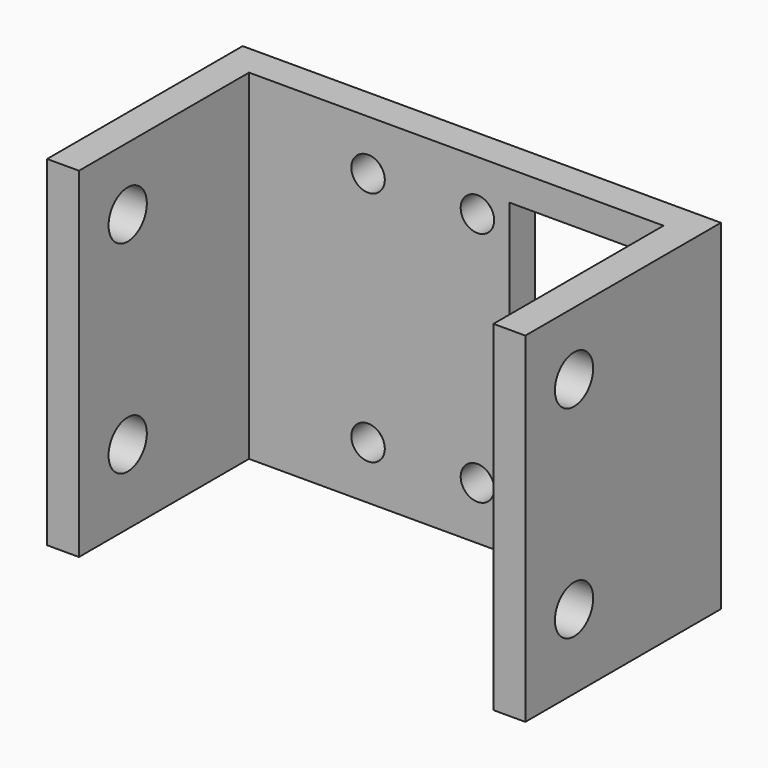
from build123d import *

# Parameters (mm, degrees)
PAD_DEPTH       = 32
SKETCH002_R     = 2.25
POCKET_DEPTH    = 45.001
SKETCH003_R     = 1.575
SKETCH003_W     = 13.933726
SKETCH003_H     = 26.2
POCKET001_DEPTH = 5


with BuildPart() as part:
    # Sketch → Pad (new body)
    with BuildSketch(Plane.XY):
        Polygon((-3, 3), (-3, -20), (0, -20), (0, 0), (39, 0), (39, -20), (42, -20), (42, 3), align=None)
    extrude(amount=PAD_DEPTH)

    # Sketch002 (on Face1 of Pad) → Pocket (cut, through all)
    with BuildSketch(Plane(origin=(-3, 0, 0), x_dir=(0, -1, 0), z_dir=(-1, 0, 0))):
        with Locations((14.271, 7)):
            Circle(SKETCH002_R)
        with Locations((14.271, 26.05)):
            Circle(SKETCH002_R)
    extrude(amount=-POCKET_DEPTH, mode=Mode.SUBTRACT)

    # Sketch003 (on Face2 of Pocket) → Pocket001 (cut)
    with BuildSketch(Plane(origin=(0, 3, 0), x_dir=(-1, 0, 0), z_dir=(0, 1, 0))):
        with Locations((-11.2, 5)):
            Circle(SKETCH003_R)
        with Locations((-21.490095, 27.267493)):
            Circle(SKETCH003_R)
        with Locations((-11.2, 27.267493)):
            Circle(SKETCH003_R)
        with Locations((-21.490095, 5)):
            Circle(SKETCH003_R)
        with Locations((-31.466863, 16.1)):
            Rectangle(SKETCH003_W, SKETCH003_H)
    extrude(amount=-POCKET001_DEPTH, mode=Mode.SUBTRACT)


solid = part.part
